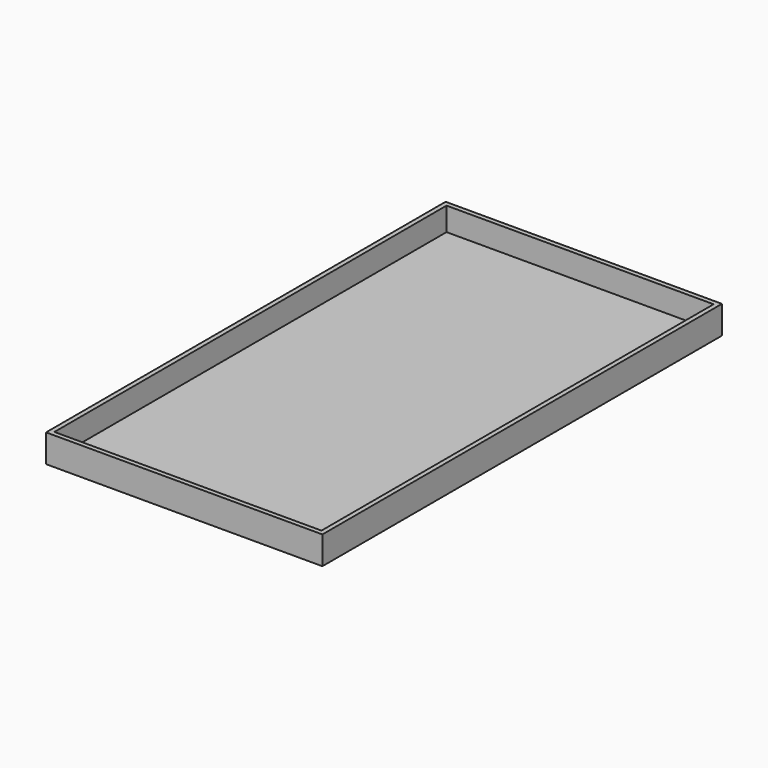
from build123d import *

# Parameters (mm, degrees)
F0_W     = 59.2
F0_H     = 107
F1_DEPTH = 6
F2_W     = 57.2188
F2_H     = 105.0188
F3_DEPTH = 5


with BuildPart() as f1:
    # F0 (on Top) → F1 (new body)
    with BuildSketch(Plane.XY):
        with Locations((-29.6, -1.328537)):
            Rectangle(F0_W, F0_H)
        with Locations((-29.6, -1.328537)):
            Rectangle(F0_W, F0_H)
    extrude(amount=F1_DEPTH)

    # F2 (on face) → F3 (cut)
    with BuildSketch(Plane.XY.offset(6)):
        with Locations((-29.6, -1.328537)):
            Rectangle(F2_W, F2_H)
    extrude(amount=-F3_DEPTH, mode=Mode.SUBTRACT)


solid = f1.part
